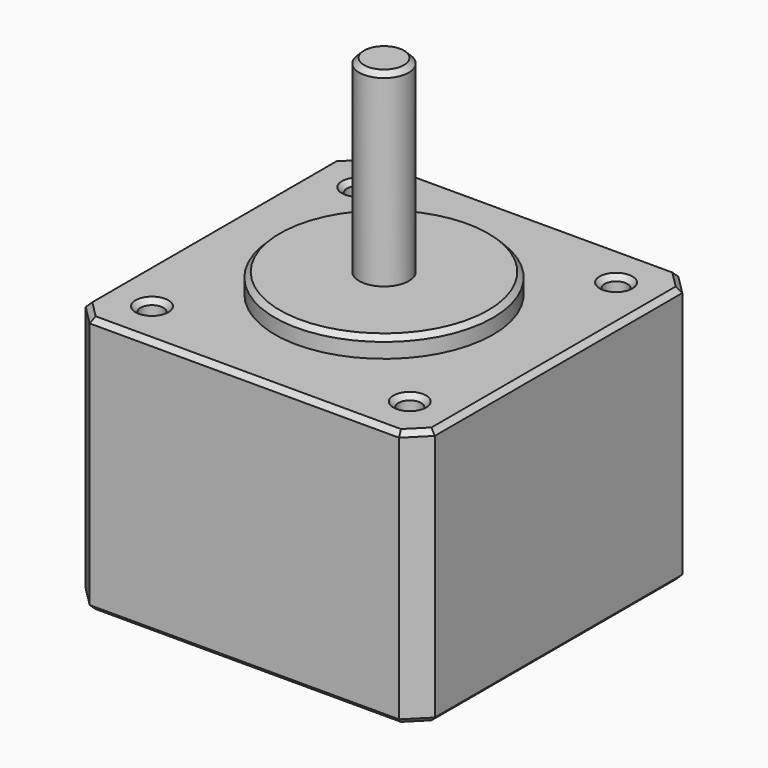
from build123d import *

# Parameters (mm, degrees)
F0_W     = 35.2
F0_H     = 35.2
F4_DEPTH = 26
F1_R     = 11
F5_DEPTH = 2
F2_R     = 2.5
F6_DEPTH = 21
F3_R     = 1.15
F7_DEPTH = 26.001
F8_SIZE  = 2
F9_SIZE  = 0.5


with BuildPart() as f4:
    # F0 (on Top) → F4 (new body)
    with BuildSketch(Plane.XY):
        Rectangle(F0_W, F0_H)
    extrude(amount=-F4_DEPTH)

    # F1 (on Top) → F5 (join)
    with BuildSketch(Plane.XY):
        Circle(F1_R)
    extrude(amount=F5_DEPTH)

    # F2 (on Top) → F6 (join)
    with BuildSketch(Plane.XY):
        Circle(F2_R)
    extrude(amount=F6_DEPTH)

    # F3 (on Top) → F7 (cut, through all)
    with BuildSketch(Plane.XY):
        with Locations((-13, -13)):
            Circle(F3_R)
        with Locations((13, -13)):
            Circle(F3_R)
        with Locations((13, 13)):
            Circle(F3_R)
        with Locations((-13, 13)):
            Circle(F3_R)
    extrude(amount=-F7_DEPTH, mode=Mode.SUBTRACT)

    # F8
    f8_edges = [f4.edges().sort_by_distance(p)[0] for p in [
        (17.6, -17.6, -13),
        (-17.6, -17.6, -13),
        (-17.6, 17.6, -13),
        (17.6, 17.6, -13),
    ]]
    chamfer(f8_edges, length=F8_SIZE)

    # F9
    f9_edges = [f4.edges().sort_by_distance(p)[0] for p in [
        (-2.5, 0, 21),
        (-11, 0, 2),
        (11.85, 13, 0),
        (11.85, -13, 0),
        (-14.15, -13, 0),
        (-14.15, 13, 0),
        (0, 17.6, 0),
        (16.6, 16.6, 0),
        (17.6, 0, 0),
        (16.6, -16.6, 0),
        (0, -17.6, 0),
        (-17.6, 0, 0),
        (17.6, 0, -26),
        (0, -17.6, -26),
        (11.85, -13, -26),
        (16.6, -16.6, -26),
        (-14.15, -13, -26),
        (11.85, 13, -26),
        (-14.15, 13, -26),
        (0, 17.6, -26),
        (-16.6, 16.6, -26),
        (16.6, 16.6, -26),
        (-17.6, 0, -26),
        (-16.6, -16.6, -26),
        (-16.6, 16.6, 0),
        (-16.6, -16.6, 0),
    ]]
    chamfer(f9_edges, length=F9_SIZE)


solid = f4.part
